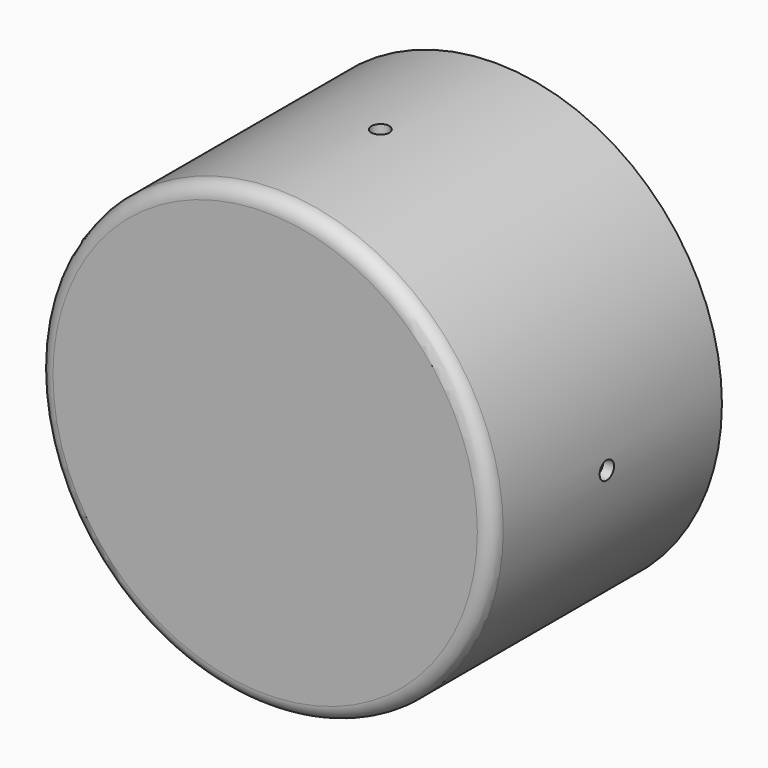
from build123d import *

# Parameters (mm, degrees)
F0_R     = 80.01
F1_DEPTH = 101.6
F2_R     = 76.2
F3_DEPTH = 88.9
F4_R     = 5.08
F5_R     = 3.175
F6_DEPTH = 127
F7_R     = 3.175
F8_DEPTH = 127


with BuildPart() as f1:
    # F0 (on Front) → F1 (new body)
    with BuildSketch(Plane.XZ):
        Circle(F0_R)
    extrude(amount=F1_DEPTH)

    # F2 (on face) → F3 (cut)
    with BuildSketch(Plane(origin=(0, 0, 0), x_dir=(-1, 0, 0), z_dir=(0, 1, 0))):
        Circle(F2_R)
    extrude(amount=-F3_DEPTH, mode=Mode.SUBTRACT)

    # F4
    f4_edges = [f1.edges().sort_by_distance(p)[0] for p in [
        (-80.01, -101.6, 0),
    ]]
    fillet(f4_edges, radius=F4_R)

    # F5 (on Top) → F6 (cut, symmetric)
    with BuildSketch(Plane.XY):
        with Locations((0, -50.8)):
            Circle(F5_R)
    extrude(amount=F6_DEPTH, both=True, mode=Mode.SUBTRACT)

    # F7 (on Right) → F8 (cut, symmetric)
    with BuildSketch(Plane.YZ):
        with Locations((-50.8, 0)):
            Circle(F7_R)
    extrude(amount=F8_DEPTH, both=True, mode=Mode.SUBTRACT)


solid = f1.part
